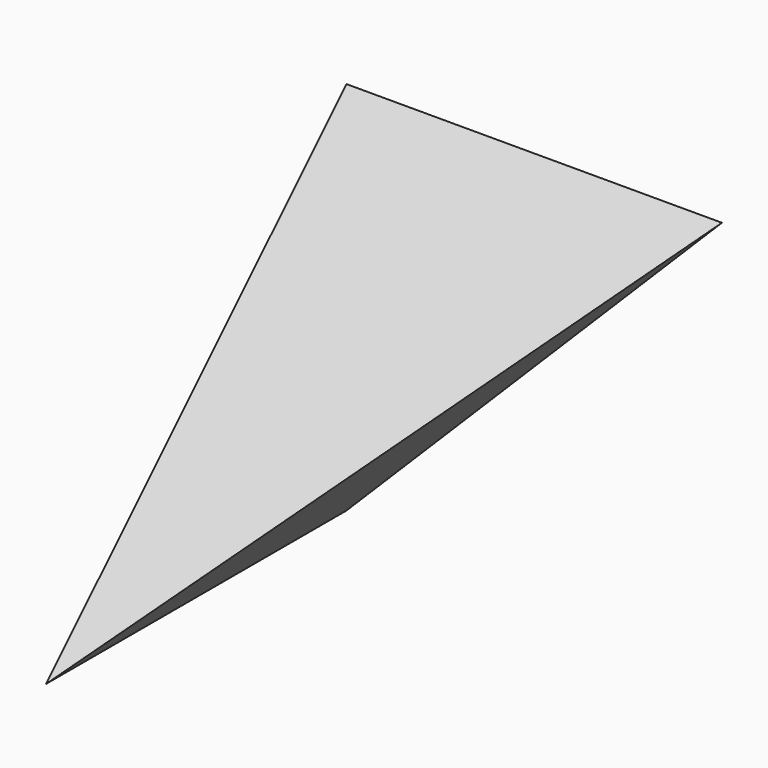
from build123d import *

# Parameters (mm, degrees)
F0_W     = 1000
F0_H     = 1000
F1_DEPTH = 1000
F4_DEPTH = 1000.001
F5_DEPTH = 1000.001


with BuildPart() as f1:
    # F0 (on Top) → F1 (new body)
    with BuildSketch(Plane.XY):
        with Locations((500, 500)):
            Rectangle(F0_W, F0_H)
    extrude(amount=F1_DEPTH)

    # F2 (on face) → F4 (cut, through all)
    with BuildSketch(Plane.YZ.offset(1000)):
        Polygon((0, 0), (1000, 1000), (0, 1000), align=None)
    extrude(amount=-F4_DEPTH, mode=Mode.SUBTRACT)

    # F3 (on face) → F5 (cut, through all)
    with BuildSketch(Plane.XZ):
        Polygon((1000, 0), (1000, 1000), (0, 0), align=None)
    extrude(amount=-F5_DEPTH, mode=Mode.SUBTRACT)


solid = f1.part
